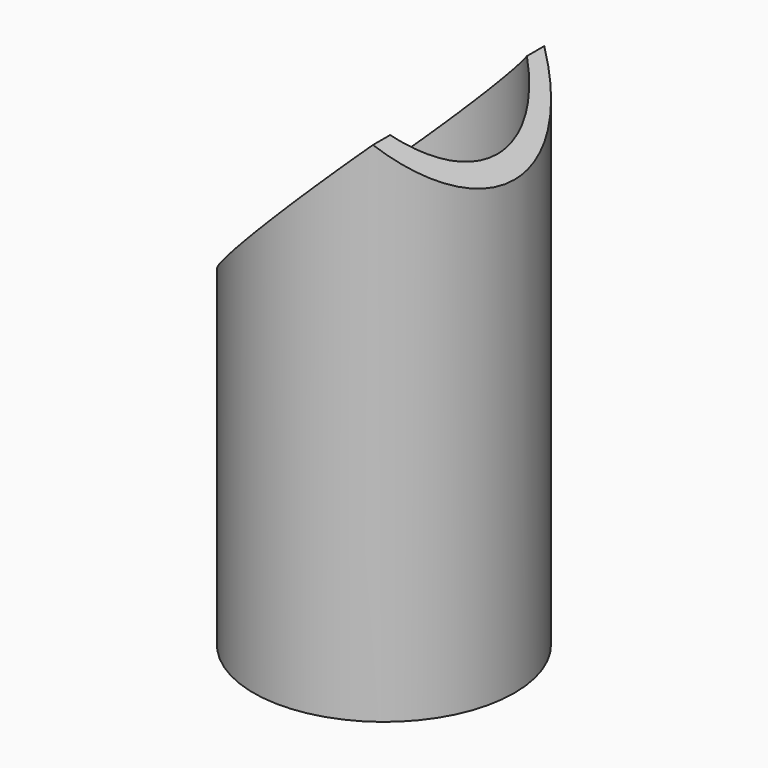
from build123d import *

# Parameters (mm, degrees)
F0_W     = 5.8166
F0_H     = 192.024
F3_DEPTH = 44.45


with BuildPart() as f1:
    # F0 (on Front) → F1 (revolve)
    with BuildSketch(Plane.XZ):
        with Locations((41.5417, 0)):
            Rectangle(F0_W, F0_H)
    revolve(axis=Axis((0, 0, 0), (0, 0, -1)))

    # F2 (on Front) → F3 (cut, symmetric)
    with BuildSketch(Plane.XZ):
        Polygon((-44.45, 7.112), (25.4, 76.962), (44.45, 57.912), (44.45, 76.962), (44.45, 96.012), (-44.45, 96.012), align=None)
    extrude(amount=F3_DEPTH, both=True, mode=Mode.SUBTRACT)


solid = f1.part
